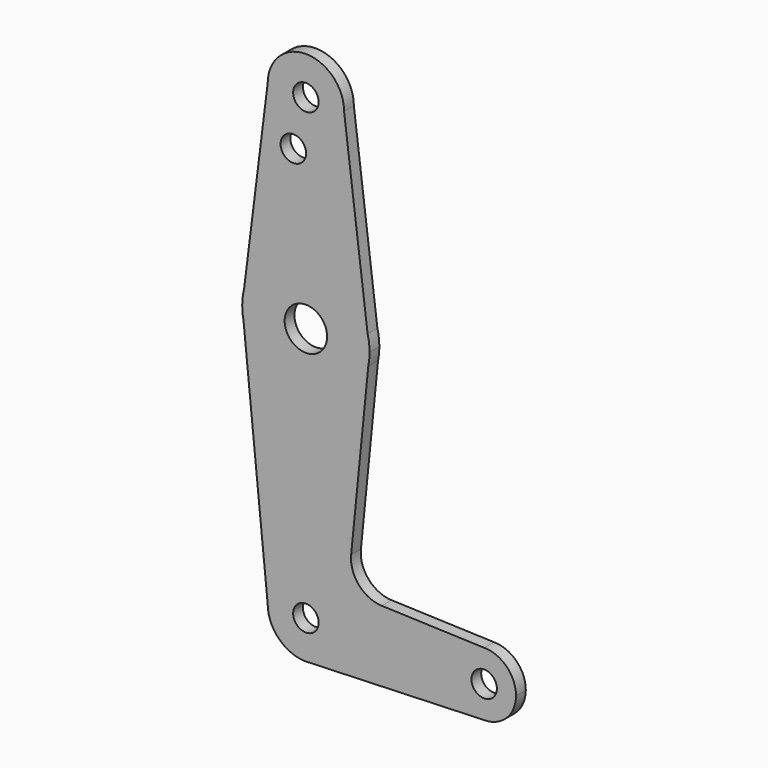
from build123d import *

# Parameters (mm, degrees)
F0_R     = 3.175
F0_R_2   = 5.2898478707
F1_DEPTH = 3.048


with BuildPart() as f1:
    # F0 (on Front) → F1 (new body)
    with BuildSketch(Plane.XZ):
        with BuildLine():
            ThreePointArc((-2.0525155026, 104.9987739995), (5.9655433465, 106.8745089333), (9.525, 114.3))
            ThreePointArc((9.525, 114.3), (0, 123.825), (-9.525, 114.3))
            ThreePointArc((-9.525, 114.3), (-7.6148081205, 108.5780840369), (-2.6503916454, 105.151172254))
            ThreePointArc((-2.6503916454, 105.151172254), (-2.3477428759, 105.0895306286), (-2.0525155026, 104.9987739995))
        make_face()
        with Locations((0, 114.3)):
            Circle(F0_R, mode=Mode.SUBTRACT)
        with BuildLine():
            Line((15.3865384615, 67.4076923077), (9.525, 114.3))
            ThreePointArc((9.525, 114.3), (5.9655433465, 106.8745089333), (-2.0525155026, 104.9987739995))
            ThreePointArc((-2.0525155026, 104.9987739995), (-0.5331358971, 103.8368250739), (0.0430278338, 102.012907574))
            ThreePointArc((0.0430278338, 102.012907574), (-5.5412918994, 99.9451059821), (-2.6503916454, 105.151172254))
            ThreePointArc((-2.6503916454, 105.151172254), (-7.6148081205, 108.5780840369), (-9.525, 114.3))
            Line((-9.525, 114.3), (-15.3865384615, 67.4076923077))
            ThreePointArc((-15.3865384615, 67.4076923077), (0, 79.375), (15.3865384615, 67.4076923077))
        make_face()
        with BuildLine():
            Line((15.875, 63.5), (15.3865384615, 67.4076923077))
            ThreePointArc((15.3865384615, 67.4076923077), (0, 79.375), (-15.3865384615, 67.4076923077))
            Line((-15.3865384615, 67.4076923077), (-15.875, 63.5))
            Line((-15.875, 63.5), (-15.5606435644, 60.3564356436))
            ThreePointArc((-15.5606435644, 60.3564356436), (0, 47.625), (15.5606435644, 60.3564356436))
            Line((15.5606435644, 60.3564356436), (15.875, 63.5))
        make_face()
        with Locations((0, 63.5)):
            Circle(F0_R_2, mode=Mode.SUBTRACT)
        with BuildLine():
            ThreePointArc((15.875, 63.5), (15.7524112928, 65.4690514116), (15.3865384615, 67.4076923077))
            Line((15.3865384615, 67.4076923077), (15.875, 63.5))
        make_face()
        with BuildLine():
            Line((-15.875, 63.5), (-15.3865384615, 67.4076923077))
            ThreePointArc((-15.3865384615, 67.4076923077), (-15.7524112928, 65.4690514116), (-15.875, 63.5))
        make_face()
        with BuildLine():
            ThreePointArc((15.5606435644, 60.3564356436), (15.7962153946, 61.9203784605), (15.875, 63.5))
            Line((15.875, 63.5), (15.5606435644, 60.3564356436))
        make_face()
        with BuildLine():
            Line((-15.5606435644, 60.3564356436), (-15.875, 63.5))
            ThreePointArc((-15.875, 63.5), (-15.7962153946, 61.9203784605), (-15.5606435644, 60.3564356436))
        make_face()
        with BuildLine():
            Line((11.2835831424, 17.5858314242), (15.5606435644, 60.3564356436))
            ThreePointArc((15.5606435644, 60.3564356436), (0, 47.625), (-15.5606435644, 60.3564356436))
            Line((-15.5606435644, 60.3564356436), (-9.525, 0))
            ThreePointArc((-9.525, 0), (0, 9.525), (9.525, 0))
            ThreePointArc((9.525, 0), (6.9712901065, -6.4905114784), (0.6794904459, -9.5007324841))
            Line((0.6794904459, -9.5007324841), (44.45, -7.9375))
            ThreePointArc((44.45, -7.9375), (36.5125, 0), (44.45, 7.9375))
            Line((44.45, 7.9375), (18.9105730062, 8.8496223926))
            ThreePointArc((18.9105730062, 8.8496223926), (13.2053552395, 11.5661923774), (11.2835831424, 17.5858314242))
        make_face()
        with BuildLine():
            ThreePointArc((9.525, 0), (0, 9.525), (-9.525, 0))
            ThreePointArc((-9.525, 0), (-6.7351920908, -6.7351920908), (0, -9.525))
            Line((0, -9.525), (0.6794904459, -9.5007324841))
            ThreePointArc((0.6794904459, -9.5007324841), (6.9712901065, -6.4905114784), (9.525, 0))
        make_face()
        Circle(F0_R, mode=Mode.SUBTRACT)
        with BuildLine():
            Line((0.6794904459, -9.5007324841), (0, -9.525))
            ThreePointArc((0, -9.525), (0.3399618281, -9.5189311877), (0.6794904459, -9.5007324841))
        make_face()
        with BuildLine():
            ThreePointArc((52.3875, 0), (50.0626600757, 5.6126600757), (44.45, 7.9375))
            ThreePointArc((44.45, 7.9375), (36.5125, 0), (44.45, -7.9375))
            ThreePointArc((44.45, -7.9375), (50.0626600757, -5.6126600757), (52.3875, 0))
        make_face()
        with Locations((44.45, 0)):
            Circle(F0_R, mode=Mode.SUBTRACT)
    extrude(amount=F1_DEPTH)


solid = f1.part
